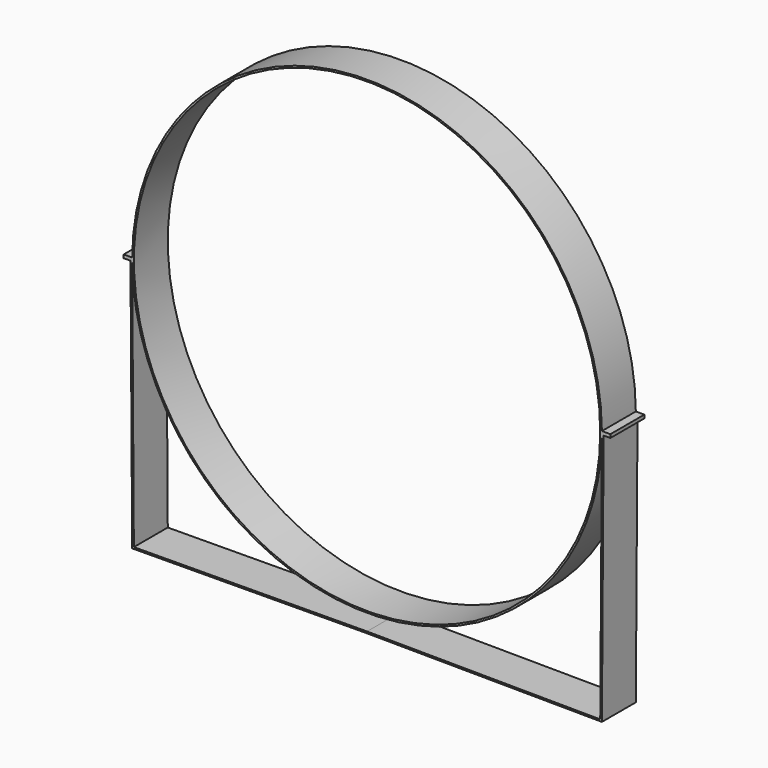
from build123d import *

# Parameters (mm, degrees)
F0_R     = 550
F1_DEPTH = 100


with BuildPart() as f1:
    # F0 (on Front) → F1 (new body)
    with BuildSketch(Plane.XZ):
        with BuildLine():
            ThreePointArc((553.985559, -4), (553.99639, -2.000013), (554, 0))
            ThreePointArc((554, 0), (553.99639, 2.000013), (553.985559, 4))
            ThreePointArc((553.985559, 4), (0, 554), (-553.985559, 4))
            ThreePointArc((-553.985559, 4), (-554, 0), (-553.985559, -4))
            ThreePointArc((-553.985559, -4), (0, -554), (553.985559, -4))
        make_face()
        Circle(F0_R, mode=Mode.SUBTRACT)
        with BuildLine():
            ThreePointArc((553.985559, 4), (553.99639, 2.000013), (554, 0))
            ThreePointArc((554, 0), (553.99639, -2.000013), (553.985559, -4))
            Line((553.985559, -4), (557.985649, -4))
            Line((557.985649, -4), (573.985559, -4))
            Line((573.985559, -4), (573.985559, 0))
            Line((573.985559, 0), (573.985559, 4))
            Line((573.985559, 4), (553.985559, 4))
        make_face()
        Polygon((557.985649, -4), (553.985559, -4), (550.012496, -595.95982), (0, -592.268295), (-550.012496, -595.95982), (-553.985559, -4), (-557.985649, -4), (-553.985559, -599.986576), (0, -596.268385), (553.985559, -599.986576), align=None)
        with BuildLine():
            ThreePointArc((-553.985559, -4), (-554, 0), (-553.985559, 4))
            Line((-553.985559, 4), (-573.985559, 4))
            Line((-573.985559, 4), (-573.985559, 0))
            Line((-573.985559, 0), (-573.985559, -4))
            Line((-573.985559, -4), (-557.985649, -4))
            Line((-557.985649, -4), (-553.985559, -4))
        make_face()
    extrude(amount=F1_DEPTH)


solid = f1.part
